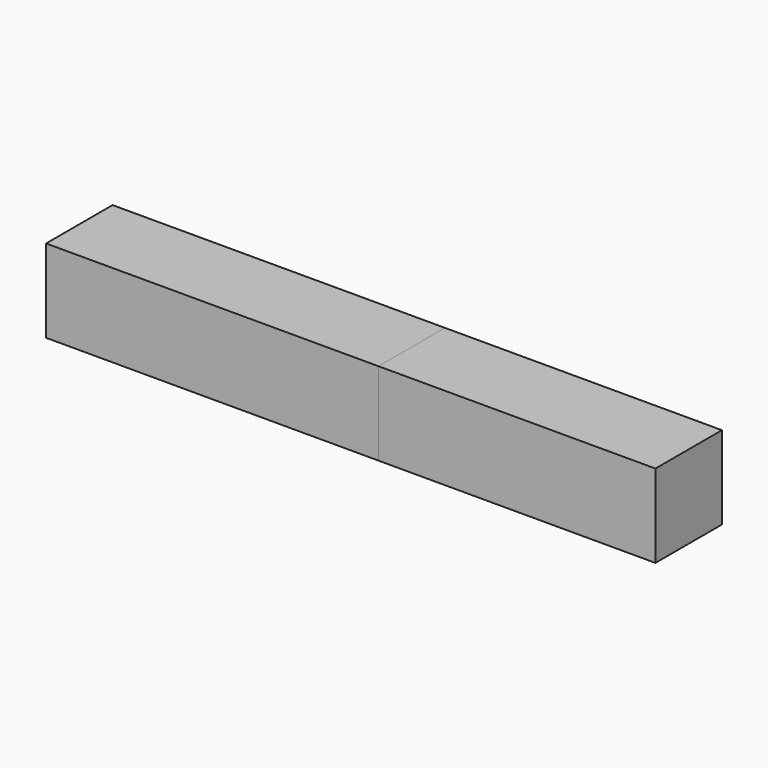
from build123d import *

# Parameters (mm, degrees)
F1_W     = 120
F1_H     = 30
F3_DEPTH = 30
F1_W_2   = 100
F4_DEPTH = 30


with BuildPart() as f3:
    # F1 (on Front) → F3 (new body, through all)
    with BuildSketch(Plane.XZ):
        with Locations((0, -15)):
            Rectangle(F1_W, F1_H)
    extrude(amount=F3_DEPTH)


with BuildPart() as f4:
    # F1 (on Front) → F4 (new body, through all)
    with BuildSketch(Plane.XZ):
        with Locations((110, -15)):
            Rectangle(F1_W_2, F1_H)
    extrude(amount=F4_DEPTH)


solid = Compound([f3.part, f4.part])
